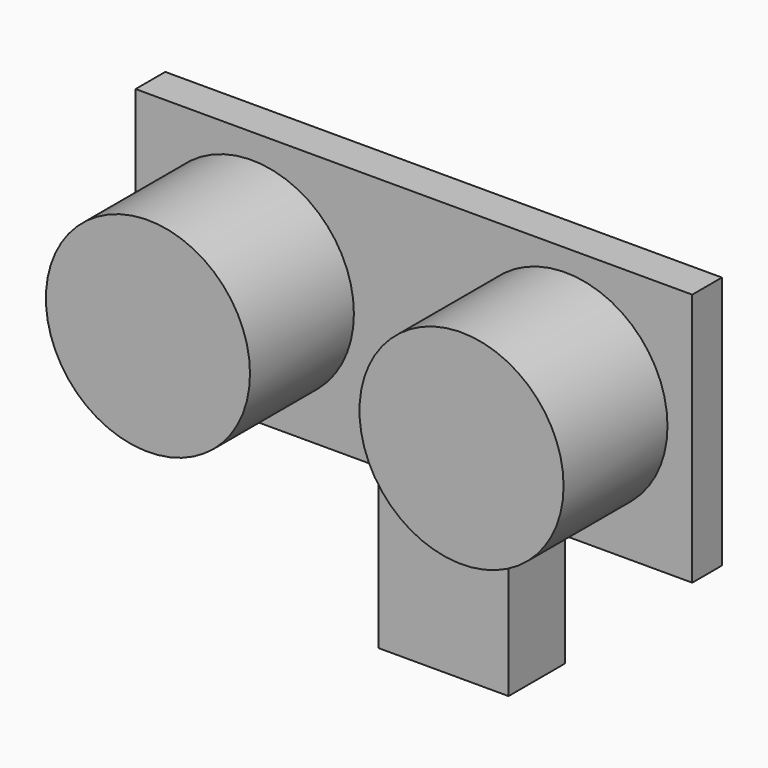
from build123d import *

# Parameters (mm, degrees)
F0_R     = 8.25
F0_W     = 10.5
F0_H     = 2.6
F1_DEPTH = 3
F0_H_2   = 14.9
F2_DEPTH = 5.7
F3_DEPTH = 13.5


with BuildPart() as f1:
    # F0 (on Front) → F1 (new body)
    with BuildSketch(Plane.XZ):
        Polygon((22.5, -10.25), (22.5, 10.25), (-22.5, 10.25), (-22.5, -10.25), (-5.25, -10.25), (-5.25, -7.65), (5.25, -7.65), (5.25, -10.25), align=None)
        with Locations((-13.1, 0)):
            Circle(F0_R, mode=Mode.SUBTRACT)
        with Locations((12.25, 0.25)):
            Circle(F0_R, mode=Mode.SUBTRACT)
        with Locations((0, -8.95)):
            Rectangle(F0_W, F0_H)
        with Locations((-13.1, 0)):
            Circle(F0_R)
        with Locations((12.25, 0.25)):
            Circle(F0_R)
    extrude(amount=F1_DEPTH)

    # F0 (on Front) → F2 (join)
    with BuildSketch(Plane.XZ):
        with Locations((0, -8.95)):
            Rectangle(F0_W, F0_H)
        with Locations((0, -17.7)):
            Rectangle(F0_W, F0_H_2)
    extrude(amount=-F2_DEPTH)

    # F0 (on Front) → F3 (join)
    with BuildSketch(Plane.XZ):
        with Locations((-13.1, 0)):
            Circle(F0_R)
        with Locations((12.25, 0.25)):
            Circle(F0_R)
    extrude(amount=F3_DEPTH)


solid = f1.part
